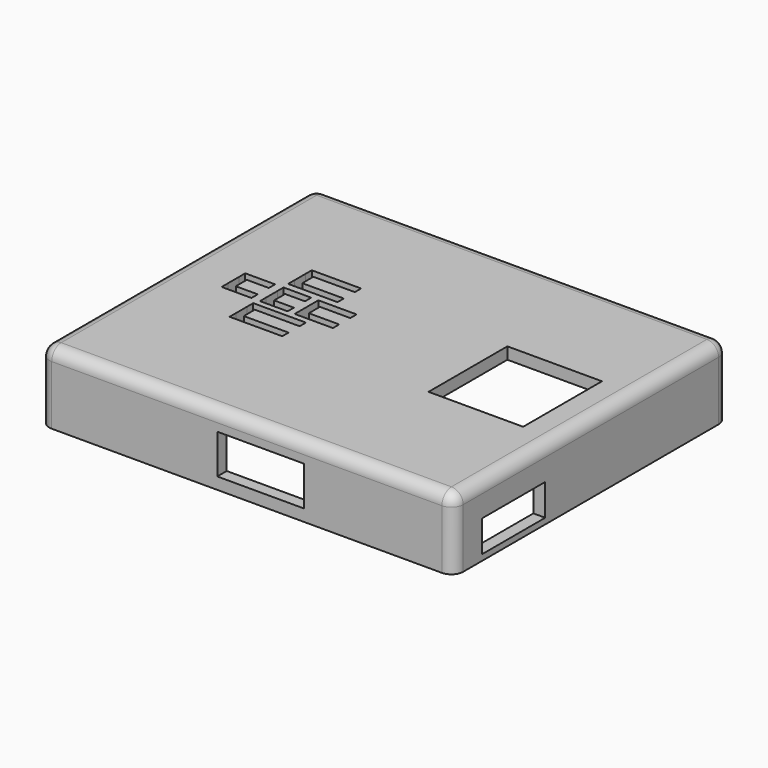
from build123d import *

# Parameters (mm, degrees)
SKETCH001_W     = 99
SKETCH001_H     = 81
PAD001_DEPTH    = 15
THICKNESS001_T  = 3
SKETCH003_R     = 1.6
POCKET001_DEPTH = 12.001
SKETCH005_W     = 24
SKETCH005_H     = 25
POCKET002_DEPTH = 18.001
SKETCH006_W     = 15
SKETCH006_H     = 8
POCKET003_DEPTH = 3
SKETCH007_W     = 17
SKETCH007_H     = 6.5
POCKET004_DEPTH = 3
SKETCH008_W     = 20
SKETCH008_H     = 8
POCKET005_DEPTH = 3
SKETCH009_W     = 22
SKETCH009_H     = 10
POCKET006_DEPTH = 3
SKETCH010_W     = 2
SKETCH010_H     = 3.5
SKETCH010_W_2   = 12.528473
SKETCH010_H_2   = 2
SKETCH010_W_3   = 9.705046
SKETCH010_W_4   = 7.019181
SKETCH010_W_5   = 13.364327
SKETCH010_W_6   = 7.581009
POCKET007_DEPTH = 3
SKETCH011_R     = 1.5
PAD002_DEPTH    = 7


with BuildPart() as part:
    # Sketch001 → Pad001 (new body)
    with BuildSketch(Plane.XY.offset(25)):
        with Locations((20, -91.5)):
            Rectangle(SKETCH001_W, SKETCH001_H)
    extrude(amount=PAD001_DEPTH)

    # Thickness001
    thickness001_openings = [part.faces().sort_by_distance(p)[0] for p in [
        (20, -91.5, 25),
    ]]
    offset(amount=THICKNESS001_T, openings=thickness001_openings)

    # Sketch003 (on Part__Feature) → Pocket001 (cut, through all)
    with BuildSketch(Plane(origin=(-200, 0, 37), x_dir=(1, 0, 0), z_dir=(0, 0, 1))):
        with Locations((180, -63)):
            Circle(SKETCH003_R)
        with Locations((254, -124)):
            Circle(SKETCH003_R)
    extrude(amount=-POCKET001_DEPTH, mode=Mode.SUBTRACT)

    # Sketch005 (on Face23 of Pocket001) → Pocket002 (cut, through all)
    with BuildSketch(Plane.XY.offset(43)):
        with Locations((52.5, -90.5)):
            Rectangle(SKETCH005_W, SKETCH005_H)
    extrude(amount=-POCKET002_DEPTH, mode=Mode.SUBTRACT)

    # Sketch006 (on Face10 of Pocket002) → Pocket003 (cut)
    with BuildSketch(Plane(origin=(-32.5, 0, 0), x_dir=(0, -1, 0), z_dir=(-1, 0, 0))):
        with Locations((97.5, 30)):
            Rectangle(SKETCH006_W, SKETCH006_H)
    extrude(amount=-POCKET003_DEPTH, mode=Mode.SUBTRACT)

    # Sketch007 (on Face12 of Pocket003) → Pocket004 (cut)
    with BuildSketch(Plane(origin=(0, -48, 0), x_dir=(-1, 0, 0), z_dir=(0, 1, 0))):
        with Locations((6, 29.75)):
            Rectangle(SKETCH007_W, SKETCH007_H)
    extrude(amount=-POCKET004_DEPTH, mode=Mode.SUBTRACT)

    # Sketch008 (on Face22 of Pocket004) → Pocket005 (cut)
    with BuildSketch(Plane.YZ.offset(72.5)):
        with Locations((-116, 30.5)):
            Rectangle(SKETCH008_W, SKETCH008_H)
    extrude(amount=-POCKET005_DEPTH, mode=Mode.SUBTRACT)

    # Sketch009 (on Face20 of Pocket005) → Pocket006 (cut)
    with BuildSketch(Plane.XZ.offset(135)):
        with Locations((23.5, 33)):
            Rectangle(SKETCH009_W, SKETCH009_H)
    extrude(amount=-POCKET006_DEPTH, mode=Mode.SUBTRACT)

    # Sketch010 (on Face43 of Pocket006) → Pocket007 (cut)
    with BuildSketch(Plane.XY.offset(43)):
        with Locations((-9.15269, -80.468796)):
            Rectangle(SKETCH010_W, SKETCH010_H)
        with Locations((-3.888453, -77.718796)):
            Rectangle(SKETCH010_W_2, SKETCH010_H_2)
        with Locations((-3.888453, -83.218796)):
            Rectangle(SKETCH010_W_2, SKETCH010_H_2)
        with Locations((-0.087345, -89.722328)):
            Rectangle(SKETCH010_W, SKETCH010_H)
        with Locations((3.765178, -86.972328)):
            Rectangle(SKETCH010_W_3, SKETCH010_H_2)
        with Locations((3.765178, -92.472328)):
            Rectangle(SKETCH010_W_3, SKETCH010_H_2)
        with Locations((-8.900494, -89.722328)):
            Rectangle(SKETCH010_W, SKETCH010_H)
        with Locations((-6.390904, -86.972328)):
            Rectangle(SKETCH010_W_4, SKETCH010_H_2)
        with Locations((-6.390904, -92.472328)):
            Rectangle(SKETCH010_W_4, SKETCH010_H_2)
        with Locations((-9.392209, -98.730659)):
            Rectangle(SKETCH010_W, SKETCH010_H)
        with Locations((-3.710045, -95.980659)):
            Rectangle(SKETCH010_W_5, SKETCH010_H_2)
        with Locations((-3.710045, -101.480659)):
            Rectangle(SKETCH010_W_5, SKETCH010_H_2)
        with Locations((-18.626614, -89.722328)):
            Rectangle(SKETCH010_W, SKETCH010_H)
        with Locations((-15.836109, -86.972328)):
            Rectangle(SKETCH010_W_6, SKETCH010_H_2)
        with Locations((-15.836109, -92.472328)):
            Rectangle(SKETCH010_W_6, SKETCH010_H_2)
    extrude(amount=-POCKET007_DEPTH, mode=Mode.SUBTRACT)

    # Sketch011 (on Face4 of Pocket007) → Pad002 (join)
    with BuildSketch(Plane(origin=(0, 0, 40), x_dir=(1, 0, 0), z_dir=(0, 0, -1))):
        with Locations((-6.596659, 98.725481)):
            Circle(SKETCH011_R)
        with Locations((2.745978, 89.787056)):
            Circle(SKETCH011_R)
        with Locations((-6.275136, 89.713417)):
            Circle(SKETCH011_R)
        with Locations((-6.42242, 80.397736)):
            Circle(SKETCH011_R)
        with Locations((-16.017, 89.712753)):
            Circle(SKETCH011_R)
    extrude(amount=PAD002_DEPTH)


solid = part.part
